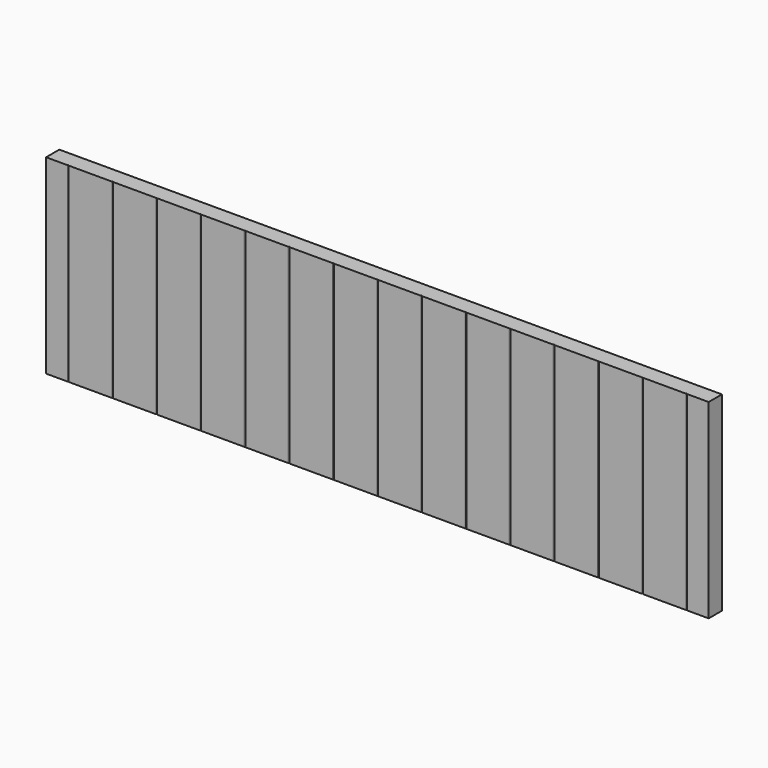
from build123d import *

# Parameters (mm, degrees)
F1_DEPTH = 219.075
F2_W     = 343.069662
F2_H     = 137.227848
F2_W_2   = 304.364362
F2_H_2   = 195.285798
F3_DEPTH = 1143
F4_R     = 0.79375
F5_DEPTH = 25.4


with BuildPart() as f1:
    # F0 (on Top) → F1 (new body)
    with BuildSketch(Plane.XY):
        with BuildLine():
            Line((458.216, -9.525), (508, -9.525))
            Line((508, -9.525), (508, 9.525))
            Line((508, 9.525), (-508, 9.525))
            Line((-508, 9.525), (-508, -8.509))
            ThreePointArc((-508, -8.509), (-507.70242, -9.22742), (-506.984, -9.525))
            Line((-506.984, -9.525), (-458.216, -9.525))
            ThreePointArc((-458.216, -9.525), (-457.49758, -9.22742), (-457.2, -8.509))
            ThreePointArc((-457.2, -8.509), (-456.90242, -9.22742), (-456.184, -9.525))
            Line((-456.184, -9.525), (-407.416, -9.525))
            ThreePointArc((-407.416, -9.525), (-406.69758, -9.22742), (-406.4, -8.509))
            ThreePointArc((-406.4, -8.509), (-406.10242, -9.22742), (-405.384, -9.525))
            Line((-405.384, -9.525), (-356.616, -9.525))
            ThreePointArc((-356.616, -9.525), (-355.89758, -9.22742), (-355.6, -8.509))
            ThreePointArc((-355.6, -8.509), (-355.30242, -9.22742), (-354.584, -9.525))
            Line((-354.584, -9.525), (-305.816, -9.525))
            ThreePointArc((-305.816, -9.525), (-305.09758, -9.22742), (-304.8, -8.509))
            ThreePointArc((-304.8, -8.509), (-304.50242, -9.22742), (-303.784, -9.525))
            Line((-303.784, -9.525), (-255.016, -9.525))
            ThreePointArc((-255.016, -9.525), (-254.29758, -9.22742), (-254, -8.509))
            ThreePointArc((-254, -8.509), (-253.70242, -9.22742), (-252.984, -9.525))
            Line((-252.984, -9.525), (-204.216, -9.525))
            ThreePointArc((-204.216, -9.525), (-203.49758, -9.22742), (-203.2, -8.509))
            ThreePointArc((-203.2, -8.509), (-202.90242, -9.22742), (-202.184, -9.525))
            Line((-202.184, -9.525), (-153.416, -9.525))
            ThreePointArc((-153.416, -9.525), (-152.69758, -9.22742), (-152.4, -8.509))
            ThreePointArc((-152.4, -8.509), (-152.10242, -9.22742), (-151.384, -9.525))
            Line((-151.384, -9.525), (-102.616, -9.525))
            ThreePointArc((-102.616, -9.525), (-101.89758, -9.22742), (-101.6, -8.509))
            ThreePointArc((-101.6, -8.509), (-101.30242, -9.22742), (-100.584, -9.525))
            Line((-100.584, -9.525), (-51.816, -9.525))
            ThreePointArc((-51.816, -9.525), (-51.09758, -9.22742), (-50.8, -8.509))
            ThreePointArc((-50.8, -8.509), (-50.50242, -9.22742), (-49.784, -9.525))
            Line((-49.784, -9.525), (-1.016, -9.525))
            ThreePointArc((-1.016, -9.525), (-0.29758, -9.22742), (0, -8.509))
            ThreePointArc((0, -8.509), (0.29758, -9.22742), (1.016, -9.525))
            Line((1.016, -9.525), (49.784, -9.525))
            ThreePointArc((49.784, -9.525), (50.50242, -9.22742), (50.8, -8.509))
            ThreePointArc((50.8, -8.509), (51.09758, -9.22742), (51.816, -9.525))
            Line((51.816, -9.525), (100.584, -9.525))
            ThreePointArc((100.584, -9.525), (101.30242, -9.22742), (101.6, -8.509))
            ThreePointArc((101.6, -8.509), (101.89758, -9.22742), (102.616, -9.525))
            Line((102.616, -9.525), (151.384, -9.525))
            ThreePointArc((151.384, -9.525), (152.10242, -9.22742), (152.4, -8.509))
            ThreePointArc((152.4, -8.509), (152.69758, -9.22742), (153.416, -9.525))
            Line((153.416, -9.525), (202.184, -9.525))
            ThreePointArc((202.184, -9.525), (202.90242, -9.22742), (203.2, -8.509))
            ThreePointArc((203.2, -8.509), (203.49758, -9.22742), (204.216, -9.525))
            Line((204.216, -9.525), (252.984, -9.525))
            ThreePointArc((252.984, -9.525), (253.70242, -9.22742), (254, -8.509))
            ThreePointArc((254, -8.509), (254.29758, -9.22742), (255.016, -9.525))
            Line((255.016, -9.525), (303.784, -9.525))
            ThreePointArc((303.784, -9.525), (304.50242, -9.22742), (304.8, -8.509))
            ThreePointArc((304.8, -8.509), (305.09758, -9.22742), (305.816, -9.525))
            Line((305.816, -9.525), (354.584, -9.525))
            ThreePointArc((354.584, -9.525), (355.30242, -9.22742), (355.6, -8.509))
            ThreePointArc((355.6, -8.509), (355.89758, -9.22742), (356.616, -9.525))
            Line((356.616, -9.525), (405.384, -9.525))
            ThreePointArc((405.384, -9.525), (406.10242, -9.22742), (406.4, -8.509))
            ThreePointArc((406.4, -8.509), (406.69758, -9.22742), (407.416, -9.525))
            Line((407.416, -9.525), (456.184, -9.525))
            ThreePointArc((456.184, -9.525), (456.90242, -9.22742), (457.2, -8.509))
            ThreePointArc((457.2, -8.509), (457.49758, -9.22742), (458.216, -9.525))
        make_face()
        with BuildLine():
            ThreePointArc((-506.984, -9.525), (-507.70242, -9.22742), (-508, -8.509))
            Line((-508, -8.509), (-508, -9.525))
            Line((-508, -9.525), (-506.984, -9.525))
        make_face()
    extrude(amount=F1_DEPTH)

    # F2 (on Top) → F3 (cut)
    with BuildSketch(Plane.XY):
        with Locations((552.534831, -20.971623)):
            Rectangle(F2_W, F2_H)
        with Locations((-533.182181, -39.444607)):
            Rectangle(F2_W_2, F2_H_2)
    extrude(amount=F3_DEPTH, mode=Mode.SUBTRACT)

    # F4 (on Front) → F5 (cut)
    with BuildSketch(Plane.XZ):
        with Locations((-293.6875, 196.85)):
            Circle(F4_R)
        with Locations((-281.78125, 209.55)):
            Circle(F4_R)
        with Locations((-305.59375, 209.55)):
            Circle(F4_R)
        with Locations((293.6875, 196.85)):
            Circle(F4_R)
        with Locations((305.59375, 209.55)):
            Circle(F4_R)
        with Locations((281.78125, 209.55)):
            Circle(F4_R)
    extrude(amount=-F5_DEPTH, mode=Mode.SUBTRACT)


solid = f1.part
